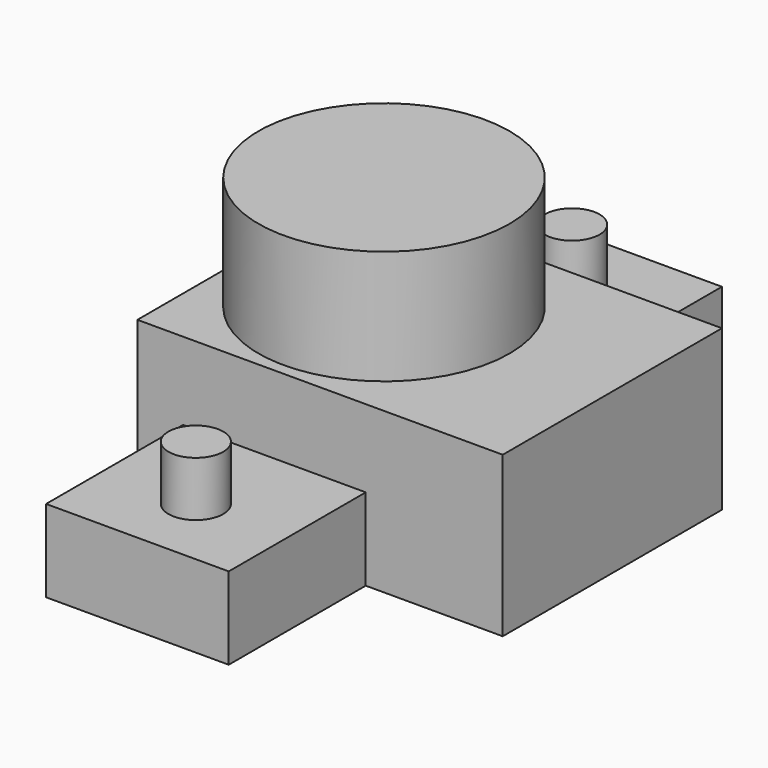
from build123d import *

# Parameters (mm, degrees)
F0_W     = 40
F0_H     = 135
F1_DEPTH = 30
F2_W     = 80
F2_H     = 60
F3_DEPTH = 60
F4_W     = 80
F4_H     = 60
F4_R     = 27.5
F5_DEPTH = 25
F6_W     = 50.039211
F6_H     = 42.056428
F6_R     = 6
F7_DEPTH = 12


with BuildPart() as f1:
    # F0 (on Top) → F1 (new body)
    with BuildSketch(Plane.XY):
        Rectangle(F0_W, F0_H)
    extrude(amount=F1_DEPTH)

    # F2 (on Top) → F3 (join)
    with BuildSketch(Plane.XY):
        with Locations((10, 0)):
            Rectangle(F2_W, F2_H)
    extrude(amount=F3_DEPTH)

    # F4 (on face) → F5 (cut)
    with BuildSketch(Plane.XY.offset(60)):
        with Locations((10, 0)):
            Rectangle(F4_W, F4_H)
        Circle(F4_R, mode=Mode.SUBTRACT)
    extrude(amount=-F5_DEPTH, mode=Mode.SUBTRACT)

    # F6 (on face) → F7 (cut)
    with BuildSketch(Plane.XY.offset(30)):
        with Locations((-0.737083, 51.028214)):
            Rectangle(F6_W, F6_H)
        with Locations((0, 51.5)):
            Circle(F6_R, mode=Mode.SUBTRACT)
        with Locations((-0.737083, -51.028214)):
            Rectangle(F6_W, F6_H)
        with Locations((0, -51.5)):
            Circle(F6_R, mode=Mode.SUBTRACT)
    extrude(amount=-F7_DEPTH, mode=Mode.SUBTRACT)


solid = f1.part
